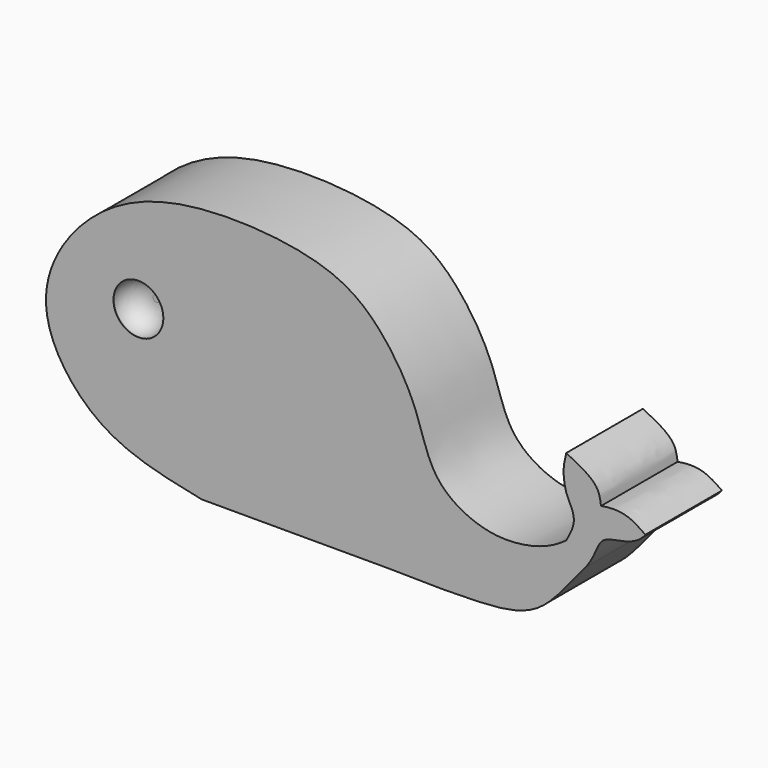
from build123d import *

# Parameters (mm, degrees)
F2_DEPTH = 22.606
F1_R     = 5.4872146103
F3_DEPTH = 5.334
F4_R     = 5.8855134318
F5_DEPTH = 5.334
F6_R     = 5.08


with BuildPart() as f2:
    # F0 (on Front) → F2 (new body)
    with BuildSketch(Plane.XZ):
        with BuildLine():
            add(Edge.make_bspline(
                [(-21.3893949986, 0), (-29.8558876356, 1.7440990172), (-44.8201286511, 4.8267289382), (-58.1485958076, 21.0211129509), (-58.8250075345, 35.463783339), (-49.1279198809, 50.6612182509), (-28.9994300098, 62.1577812938), (6.3831936581, 60.2634319806), (20.2262222776, 50.8894796309), (29.9870765203, 35.8392411079), (32.55337013, 21.0921297315), (46.2793685021, 14.136121022), (57.5301206398, 15.4620906271), (62.0524756017, 17.554031261), (64.6984800696, 19.4328007384)],
                knots=[0, 0, 0, 0, 0.0991212632, 0.187376055, 0.2609985361, 0.3433252819, 0.4402031409, 0.5582895887, 0.6400935122, 0.7237830492, 0.8004452382, 0.8756336289, 0.9419411522, 1, 1, 1, 1], degree=3))
            Line((-21.3893949986, 0), (22.5887987763, 0))
            add(Edge.make_bspline(
                [(22.5887987763, 0), (30.0555107451, -0.1785538454), (43.5407340665, -0.36039021), (59.0969349792, 1.2271987848), (65.3887676773, 11.0178212577), (69.2758336663, 15.3567576781)],
                knots=[0, 0, 0, 0, 0.3705004094, 0.6734725978, 1, 1, 1, 1], degree=3))
            add(Edge.make_bspline(
                [(83.3804085851, 26.721874252), (80.7147073888, 23.1452443157), (71.7031514756, 24.3374401975), (71.9560459256, 18.7779553235), (69.2758336663, 15.3567576781)],
                knots=[0, 0, 0, 0, 0.5262370466, 1, 1, 1, 1], degree=3))
            add(Edge.make_bspline(
                [(72.9123353958, 29.2939841747), (74.7513096378, 29.6456268441), (78.5640885925, 29.9006053022), (82.2883164725, 27.5086432622), (83.2686051726, 26.8028322607), (83.3804085851, 26.721874252)],
                knots=[0, 0, 0, 0, 0.43219733, 0.8108807309, 1, 1, 1, 1], degree=3))
            add(Edge.make_bspline(
                [(64.6984800696, 37.6325226733), (67.4301230597, 36.3145505537), (72.3104152667, 33.8607139009), (72.7287979003, 30.6270999302), (72.9123353958, 29.2939841747)],
                knots=[0, 0, 0, 0, 0.5869352567, 1, 1, 1, 1], degree=3))
            add(Edge.make_bspline(
                [(64.6984800696, 37.6325226733), (64.4058786627, 36.4395615625), (63.7974698409, 33.9590264504), (64.4918432603, 29.3870442845), (65.8555320597, 27.1525797351), (67.0528462074, 23.7436378032), (65.5339742632, 20.9625880045), (64.6984800696, 19.4328007384)],
                knots=[0, 0, 0, 0, 0.2016921417, 0.4193803427, 0.5874498429, 0.7730662798, 1, 1, 1, 1], degree=3))
        make_face()
    extrude(amount=F2_DEPTH)

    # F1 (on Front) → F3 (cut)
    with BuildSketch(Plane.XZ):
        with Locations((-36.004498601, 34.7140170634)):
            Circle(F1_R)
    extrude(amount=F3_DEPTH, mode=Mode.SUBTRACT)

    # F4 (on face) → F5 (cut)
    with BuildSketch(Plane.XZ.offset(22.606)):
        with Locations((-36.3184586167, 34.7140170634)):
            Circle(F4_R)
    extrude(amount=-F5_DEPTH, mode=Mode.SUBTRACT)

    # F6
    f6_edges = [f2.edges().sort_by_distance(p)[0] for p in [
        (-42.203972, -17.272, 34.714017),
        (-41.491713, -5.334, 34.714017),
    ]]
    fillet(f6_edges, radius=F6_R)


solid = f2.part
